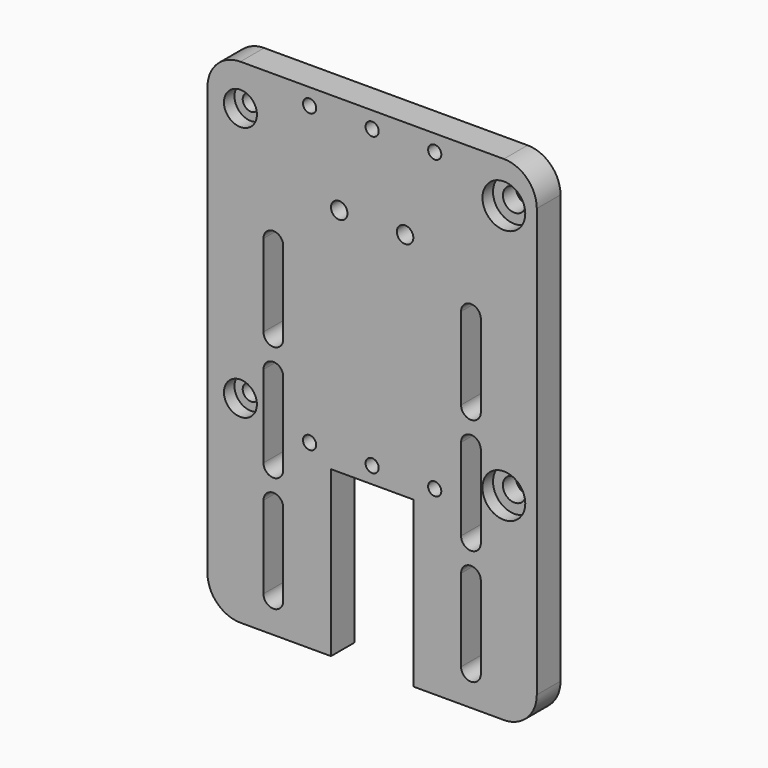
from build123d import *

# Parameters (mm, degrees)
F0_R     = 5
F0_R_2   = 2
F0_R_3   = 6.5
F0_R_4   = 2.5
F1_DEPTH = 9
F0_R_5   = 3.5
F2_DEPTH = 5


with BuildPart() as f1:
    # F0 (on Front) → F1 (new body)
    with BuildSketch(Plane.XZ):
        with BuildLine():
            Line((40, 150), (-40, 150))
            ThreePointArc((-40, 150), (-47.071068, 147.071068), (-50, 140))
            Line((-50, 140), (-50, 10))
            ThreePointArc((-50, 10), (-47.071068, 2.928932), (-40, 0))
            Line((-40, 0), (-12.5, 0))
            Line((-12.5, 0), (-12.5, 50))
            Line((-12.5, 50), (0, 50))
            Line((0, 50), (12.5, 50))
            Line((12.5, 50), (12.5, 0))
            Line((12.5, 0), (40, 0))
            ThreePointArc((40, 0), (47.071068, 2.928932), (50, 10))
            Line((50, 10), (50, 140))
            ThreePointArc((50, 140), (47.071068, 147.071068), (40, 150))
        make_face()
        with BuildLine():
            ThreePointArc((-27, 10), (-30, 7), (-33, 10))
            Line((-33, 10), (-33, 35))
            ThreePointArc((-33, 35), (-30, 38), (-27, 35))
            Line((-27, 35), (-27, 10))
        make_face(mode=Mode.SUBTRACT)
        with Locations((-40, 60)):
            Circle(F0_R, mode=Mode.SUBTRACT)
        with BuildLine():
            Line((-33, 45), (-33, 70))
            ThreePointArc((-33, 70), (-30, 73), (-27, 70))
            Line((-27, 70), (-27, 45))
            ThreePointArc((-27, 45), (-30, 42), (-33, 45))
        make_face(mode=Mode.SUBTRACT)
        with Locations((-19, 55)):
            Circle(F0_R_2, mode=Mode.SUBTRACT)
        with BuildLine():
            Line((27, 10), (27, 35))
            ThreePointArc((27, 35), (30, 38), (33, 35))
            Line((33, 35), (33, 10))
            ThreePointArc((33, 10), (30, 7), (27, 10))
        make_face(mode=Mode.SUBTRACT)
        with Locations((0, 55)):
            Circle(F0_R_2, mode=Mode.SUBTRACT)
        with Locations((19, 55)):
            Circle(F0_R_2, mode=Mode.SUBTRACT)
        with BuildLine():
            ThreePointArc((27, 70), (30, 73), (33, 70))
            Line((33, 70), (33, 45))
            ThreePointArc((33, 45), (30, 42), (27, 45))
            Line((27, 45), (27, 70))
        make_face(mode=Mode.SUBTRACT)
        with Locations((40, 60)):
            Circle(F0_R_3, mode=Mode.SUBTRACT)
        with BuildLine():
            ThreePointArc((-27, 80), (-30, 77), (-33, 80))
            Line((-33, 80), (-33, 105))
            ThreePointArc((-33, 105), (-30, 108), (-27, 105))
            Line((-27, 105), (-27, 80))
        make_face(mode=Mode.SUBTRACT)
        with Locations((-40, 137.5)):
            Circle(F0_R, mode=Mode.SUBTRACT)
        with Locations((-10, 120)):
            Circle(F0_R_4, mode=Mode.SUBTRACT)
        with Locations((-19, 145)):
            Circle(F0_R_2, mode=Mode.SUBTRACT)
        with BuildLine():
            Line((33, 105), (33, 80))
            ThreePointArc((33, 80), (30, 77), (27, 80))
            Line((27, 80), (27, 105))
            ThreePointArc((27, 105), (30, 108), (33, 105))
        make_face(mode=Mode.SUBTRACT)
        with Locations((10, 120)):
            Circle(F0_R_4, mode=Mode.SUBTRACT)
        with Locations((0, 145)):
            Circle(F0_R_2, mode=Mode.SUBTRACT)
        with Locations((19, 145)):
            Circle(F0_R_2, mode=Mode.SUBTRACT)
        with Locations((40, 137.5)):
            Circle(F0_R_3, mode=Mode.SUBTRACT)
    extrude(amount=F1_DEPTH)

    # F0 (on Front) → F2 (join)
    with BuildSketch(Plane.XZ):
        with Locations((-40, 137.5)):
            Circle(F0_R)
        with Locations((-40, 137.5)):
            Circle(F0_R_4, mode=Mode.SUBTRACT)
        with Locations((40, 137.5)):
            Circle(F0_R_3)
        with Locations((40, 137.5)):
            Circle(F0_R_5, mode=Mode.SUBTRACT)
        with Locations((40, 60)):
            Circle(F0_R_3)
        with Locations((40, 60)):
            Circle(F0_R_5, mode=Mode.SUBTRACT)
        with Locations((-40, 60)):
            Circle(F0_R)
        with Locations((-40, 60)):
            Circle(F0_R_4, mode=Mode.SUBTRACT)
    extrude(amount=F2_DEPTH)


solid = f1.part
